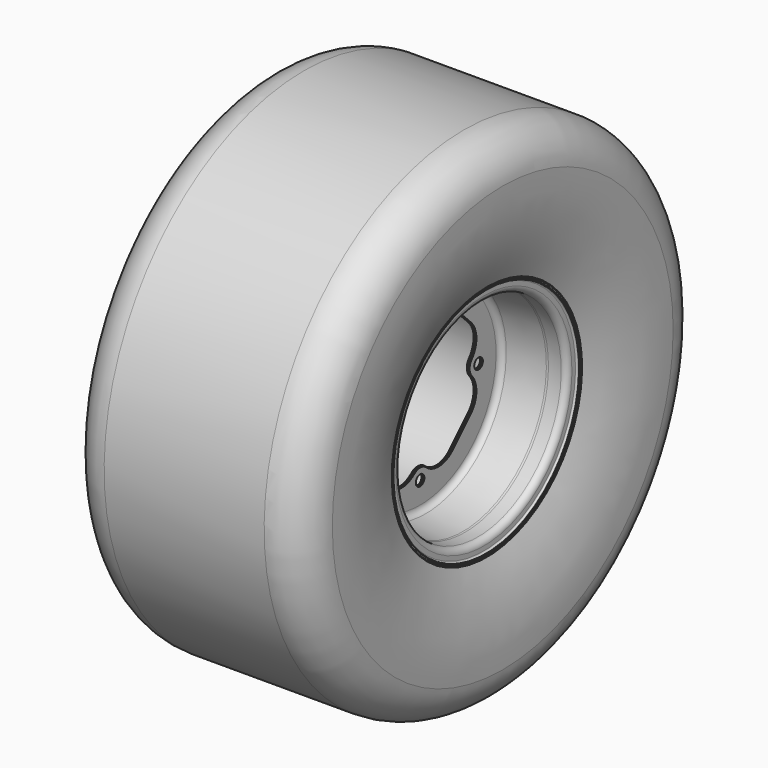
from build123d import *

# Parameters (mm, degrees)
F3_R     = 5
F4_DEPTH = 144.6032
F5_SIZE  = 0.762


with BuildPart() as f2:
    # F0 (on Front) → F2 (revolve)
    with BuildSketch(Plane.XZ):
        with BuildLine():
            ThreePointArc((-3.302, 122.3518), (-2.8333122713, 123.4833122713), (-1.7018, 123.952))
            Line((-1.7018, 123.952), (0, 123.952))
            Line((0, 123.952), (0, 127))
            Line((0, 127), (-4.7498, 127))
            ThreePointArc((-4.7498, 127), (-5.8813122713, 126.5313122713), (-6.35, 125.3998))
            Line((-6.35, 125.3998), (-6.35, 117.602))
            ThreePointArc((-6.35, 117.602), (-7.3171334085, 115.2671334085), (-9.652, 114.3))
            Line((-9.652, 114.3), (-23.2650923746, 114.3))
            ThreePointArc((-23.2650923746, 114.3), (-24.3575880365, 114.2764941083), (-25.4480616446, 114.2060199393))
            Line((-25.4480616446, 114.2060199393), (-68.5669423175, 110.4864626286))
            ThreePointArc((-68.5669423175, 110.4864626286), (-72.7003005394, 108.4528026378), (-74.3712, 104.1599576438))
            Line((-74.3712, 104.1599576438), (-74.3712, 101.346))
            ThreePointArc((-74.3712, 101.346), (-76.2310719395, 96.8558719395), (-80.7212, 94.996))
            Line((-80.7212, 94.996), (-148.0312, 94.996))
            ThreePointArc((-148.0312, 94.996), (-154.1916048759, 95.7543804963), (-159.9841411765, 97.9842352941))
            Line((-159.9841411765, 97.9842352941), (-187.7747294118, 112.8058823529))
            ThreePointArc((-187.7747294118, 112.8058823529), (-190.670997562, 113.9208097518), (-193.7512, 114.3))
            Line((-193.7512, 114.3), (-206.2734, 114.3))
            ThreePointArc((-206.2734, 114.3), (-208.6082665915, 115.2671334085), (-209.5754, 117.602))
            Line((-209.5754, 117.602), (-209.5754, 125.3998))
            ThreePointArc((-209.5754, 125.3998), (-210.0440877287, 126.5313122713), (-211.1756, 127))
            Line((-211.1756, 127), (-215.9254, 127))
            Line((-215.9254, 127), (-215.9254, 123.952))
            Line((-215.9254, 123.952), (-214.2236, 123.952))
            ThreePointArc((-214.2236, 123.952), (-213.0920877287, 123.4833122713), (-212.6234, 122.3518))
            Line((-212.6234, 122.3518), (-212.6234, 117.602))
            ThreePointArc((-212.6234, 117.602), (-210.7635280605, 113.1118719395), (-206.2734, 111.252))
            Line((-206.2734, 111.252), (-194.5132, 111.252))
            ThreePointArc((-194.5132, 111.252), (-191.432997562, 110.8728097518), (-188.5367294118, 109.7578823529))
            Line((-188.5367294118, 109.7578823529), (-160.7461411765, 94.9362352941))
            ThreePointArc((-160.7461411765, 94.9362352941), (-154.9536048759, 92.7063804963), (-148.7932, 91.948))
            Line((-148.7932, 91.948), (-80.7212, 91.948))
            ThreePointArc((-80.7212, 91.948), (-76.2310719395, 90.0881280605), (-74.3712, 85.598))
            Line((-74.3712, 85.598), (-74.3712, 0))
            Line((-74.3712, 0), (-71.3232, 0))
            Line((-71.3232, 0), (-71.3232, 101.3748867947))
            ThreePointArc((-71.3232, 101.3748867947), (-69.6523005394, 105.6677317886), (-65.5189423175, 107.7013917795))
            Line((-65.5189423175, 107.7013917795), (-25.4480616446, 111.1580199393))
            ThreePointArc((-25.4480616446, 111.1580199393), (-24.3575880365, 111.2284941083), (-23.2650923746, 111.252))
            Line((-23.2650923746, 111.252), (-9.652, 111.252))
            ThreePointArc((-9.652, 111.252), (-5.1618719395, 113.1118719395), (-3.302, 117.602))
            Line((-3.302, 117.602), (-3.302, 122.3518))
        make_face()
    revolve(axis=Axis((-109.8303719628, 0, 0), (-1, 0, 0)))

    # F3 (on face) → F4 (cut, through all)
    with BuildSketch(Plane.YZ.offset(-71.3232)):
        with Locations((0, 78)):
            Circle(F3_R)
        with BuildLine():
            ThreePointArc((8.2383398441, 68.3346103745), (4.3897352856, 66.0827761571), (0, 65.3))
            ThreePointArc((0, 65.3), (-4.3897352856, 66.0827761571), (-8.2383398441, 68.3346103745))
            ThreePointArc((-8.2383398441, 68.3346103745), (-25.7248946142, 74.3837474417), (-42.6755317745, 66.9643433656))
            Line((-42.6755317745, 66.9643433656), (-66.9643433656, 42.6755317745))
            ThreePointArc((-66.9643433656, 42.6755317745), (-74.3837474417, 25.7248946142), (-68.3346103745, 8.2383398441))
            ThreePointArc((-68.3346103745, 8.2383398441), (-66.0827761571, 4.3897352856), (-65.3, 0))
            ThreePointArc((-65.3, 0), (-66.0827761571, -4.3897352856), (-68.3346103745, -8.2383398441))
            ThreePointArc((-68.3346103745, -8.2383398441), (-74.3837474417, -25.7248946142), (-66.9643433656, -42.6755317745))
            Line((-66.9643433656, -42.6755317745), (-42.6755317745, -66.9643433656))
            ThreePointArc((-42.6755317745, -66.9643433656), (-25.7248946142, -74.3837474417), (-8.2383398441, -68.3346103745))
            ThreePointArc((-8.2383398441, -68.3346103745), (-4.3897352856, -66.0827761571), (0, -65.3))
            ThreePointArc((0, -65.3), (4.3897352856, -66.0827761571), (8.2383398441, -68.3346103745))
            ThreePointArc((8.2383398441, -68.3346103745), (25.7248946142, -74.3837474417), (42.6755317745, -66.9643433656))
            Line((42.6755317745, -66.9643433656), (66.9643433656, -42.6755317745))
            ThreePointArc((66.9643433656, -42.6755317745), (74.3837474417, -25.7248946142), (68.3346103745, -8.2383398441))
            ThreePointArc((68.3346103745, -8.2383398441), (66.0827761571, -4.3897352856), (65.3, 0))
            ThreePointArc((65.3, 0), (66.0827761571, 4.3897352856), (68.3346103745, 8.2383398441))
            ThreePointArc((68.3346103745, 8.2383398441), (74.3837474417, 25.7248946142), (66.9643433656, 42.6755317745))
            Line((66.9643433656, 42.6755317745), (42.6755317745, 66.9643433656))
            ThreePointArc((42.6755317745, 66.9643433656), (25.7248946142, 74.3837474417), (8.2383398441, 68.3346103745))
        make_face()
        with Locations((-78, 0)):
            Circle(F3_R)
        with Locations((0, -78)):
            Circle(F3_R)
        with Locations((78, 0)):
            Circle(F3_R)
    extrude(amount=-F4_DEPTH, mode=Mode.SUBTRACT)

    # F5
    f5_edges = [f2.edges().sort_by_distance(p)[0] for p in [
        (0, 0, -123.952),
        (0, 0, -127),
        (-215.9254, 0, -127),
        (-215.9254, 0, -123.952),
        (-71.3232, 73, 0),
        (-72.8472, 83, 0),
        (-74.3712, 73, 0),
        (-71.3232, -5, -78),
        (-72.8472, 5, -78),
        (-74.3712, -5, -78),
        (-71.3232, 54.819938, -54.819938),
        (-74.3712, 54.819938, -54.819938),
        (-71.3232, -83, 0),
        (-72.8472, -73, 0),
        (-74.3712, -83, 0),
        (-71.3232, -5, 78),
        (-72.8472, 5, 78),
        (-74.3712, -5, 78),
    ]]
    chamfer(f5_edges, length=F5_SIZE)


with BuildPart() as f6:
    # F1 (on Front) → F6 (revolve)
    with BuildSketch(Plane.XZ):
        with BuildLine():
            Line((-14.5803719628, 117.602), (-8.2303719628, 117.602))
            Line((-8.2303719628, 117.602), (-8.2303719628, 127))
            Line((-8.2303719628, 127), (0, 127))
            ThreePointArc((0, 127), (13.8814793807, 176.2722593542), (16.8800713226, 227.3747001768))
            ThreePointArc((16.8800713226, 227.3747001768), (4.083018642, 255.297074651), (-24.437094385, 266.7))
            Line((-24.437094385, 266.7), (-109.8303719628, 266.7))
            Line((-109.8303719628, 266.7), (-195.2236495406, 266.7))
            ThreePointArc((-195.2236495406, 266.7), (-223.7437625676, 255.297074651), (-236.5408152482, 227.3747001768))
            ThreePointArc((-236.5408152482, 227.3747001768), (-233.5422233064, 176.2722593542), (-219.6607439257, 127))
            Line((-219.6607439257, 127), (-211.4303719628, 127))
            Line((-211.4303719628, 127), (-211.4303719628, 117.602))
            Line((-211.4303719628, 117.602), (-205.0803719628, 117.602))
            Line((-205.0803719628, 117.602), (-205.0803719628, 133.35))
            Line((-205.0803719628, 133.35), (-215.3287363083, 133.35))
            ThreePointArc((-215.3287363083, 133.35), (-226.7445451304, 174.2662567365), (-230.4785045867, 216.5807731956))
            ThreePointArc((-230.4785045867, 216.5807731956), (-221.2976798066, 238.557596654), (-199.2841268367, 247.65))
            Line((-199.2841268367, 247.65), (-109.8303719628, 247.65))
            Line((-109.8303719628, 247.65), (-20.3766170889, 247.65))
            ThreePointArc((-20.3766170889, 247.65), (1.636935881, 238.557596654), (10.8177606611, 216.5807731956))
            ThreePointArc((10.8177606611, 216.5807731956), (7.0838012047, 174.2662567365), (-4.3320076174, 133.35))
            Line((-4.3320076174, 133.35), (-14.5803719628, 133.35))
            Line((-14.5803719628, 133.35), (-14.5803719628, 117.602))
        make_face()
    revolve(axis=Axis((-109.8303719628, 0, 0), (-1, 0, 0)))


solid = Compound([f2.part, f6.part])
